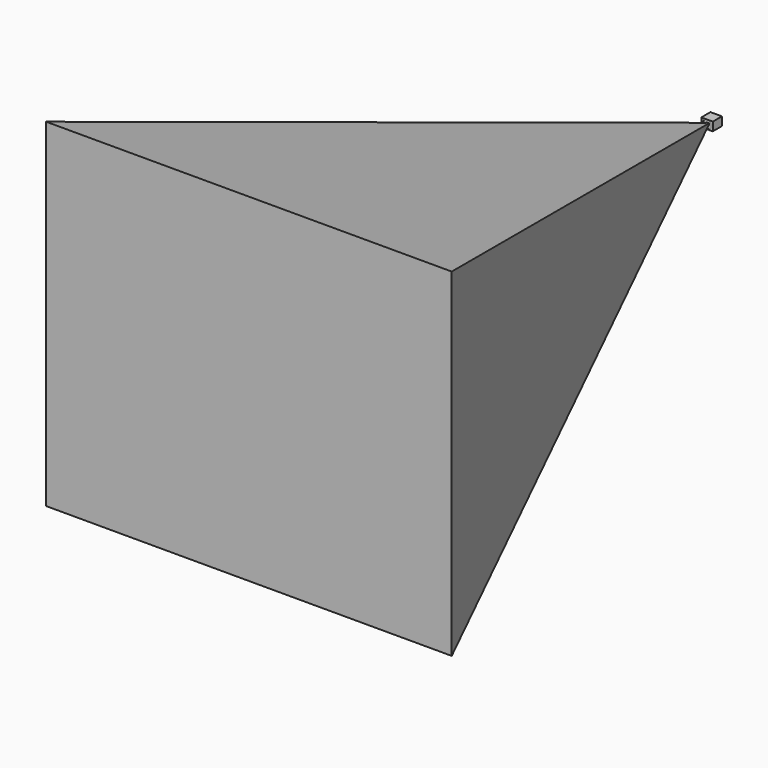
from build123d import *

# Parameters (mm, degrees)
F0_W      = 40
F0_H      = 30
F1_DEPTH  = 40
F3_R      = 14.5
F4_DEPTH  = 3
F5_W      = 8.5
F5_H      = 7.09
F6_DEPTH  = 3
F6_FACE_W = 8.5
F6_FACE_H = 7.09
F8_W      = 1416.6666666667
F8_H      = 1181.6666666667


with BuildPart() as f1:
    # F0 (on Front) → F1 (new body)
    with BuildSketch(Plane.XZ):
        Rectangle(F0_W, F0_H)
    extrude(amount=F1_DEPTH)

    # F3 (on face) → F4 (cut)
    with BuildSketch(Plane.XZ.offset(40)):
        Circle(F3_R)
    extrude(amount=-F4_DEPTH, mode=Mode.SUBTRACT)

    # F5 (on face) → F6 (join)
    with BuildSketch(Plane.XZ.offset(37)):
        Rectangle(F5_W, F5_H)
    extrude(amount=F6_DEPTH)

    # F6_face (on face) → F9 section 0
    with BuildSketch(Plane.XZ.offset(40)):
        Rectangle(F6_FACE_W, F6_FACE_H)
    # F8 (on offset) → F9 section 1
    with BuildSketch(Plane.XZ.offset(2040)):
        Rectangle(F8_W, F8_H)
    loft()

    # F10 (on face) → F11 (revolve)
    with BuildSketch(Plane.XZ):
        with BuildLine():
            ThreePointArc((0, -5), (5, 0), (0, 5))
            Line((0, 5), (0, -5))
        make_face()
    revolve(axis=Axis((0, 0, 0), (0, 0, -1)))


solid = f1.part
